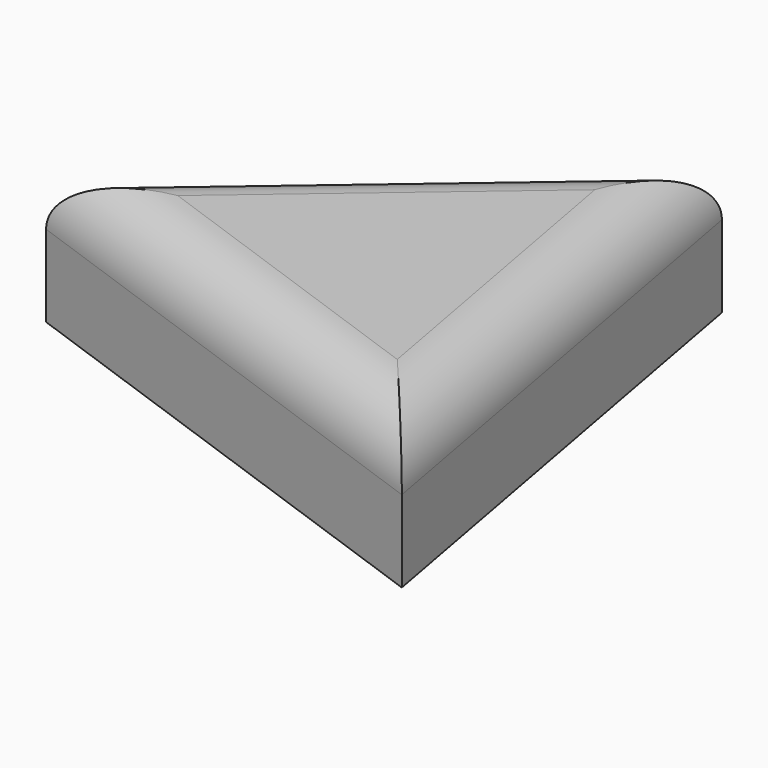
from build123d import *

# Parameters (mm, degrees)
F1_DEPTH = 39.177313
F2_R     = 16.31925
F3_R     = 30.097367
F4_DEPTH = 30.095011
F6_DEPTH = 26.99797


with BuildPart() as f1:
    # F0 (on Top) → F1 (new body)
    with BuildSketch(Plane.XY):
        Polygon((55.259834, -64.92503), (28.596808, 80.318935), (-83.856642, -15.393905), align=None)
    extrude(amount=F1_DEPTH)

    # F2
    f2_edges = [f1.edges().sort_by_distance(p)[0] for p in [
        (41.928321, 7.696953, 39.177313),
        (-14.298404, -40.159468, 39.177313),
        (-27.629917, 32.462515, 39.177313),
    ]]
    fillet(f2_edges, radius=F2_R)

    # F3 (on face) → F4 (join)
    with BuildSketch(Plane(origin=(0, 0, 0), x_dir=(1, 0, 0), z_dir=(0, 0, -1))):
        Circle(F3_R)
    extrude(amount=-F4_DEPTH)

    # F5 (on Top) → F6 (join)
    with BuildSketch(Plane.XY):
        Polygon((16.23941, -30.575463), (32.093639, -12.983671), (32.930897, 10.683324), (18.359422, 29.351473), (-4.80263, 34.285742), (-25.717478, 23.177331), (-34.598832, 1.223989), (-27.291009, -21.302071), (-7.213418, -33.860655), align=None)
    extrude(amount=F6_DEPTH)


solid = f1.part
